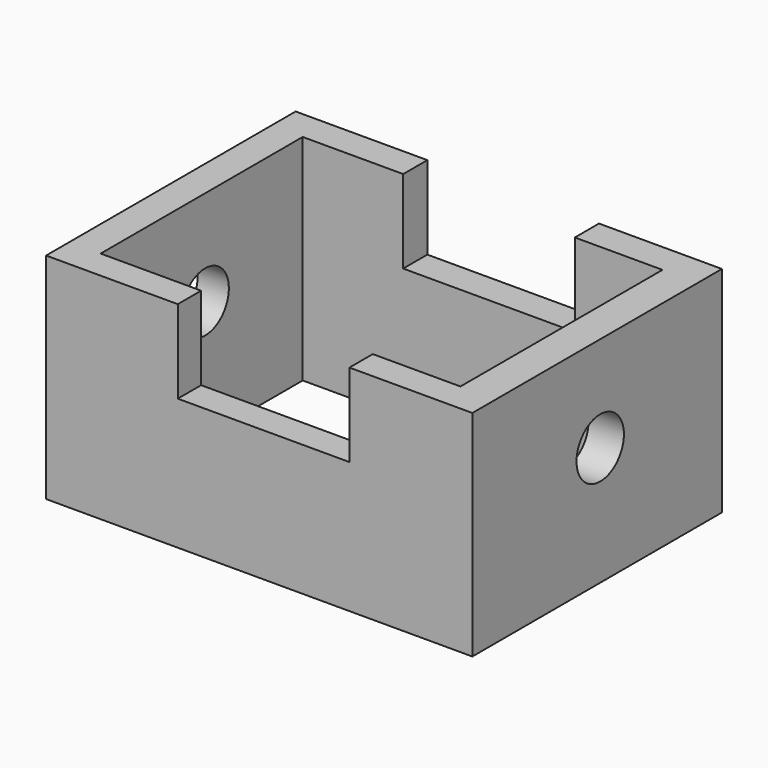
from build123d import *

# Parameters (mm, degrees)
F0_W     = 176.7475008965
F0_H     = 129.3457597494
F0_W_2   = 149.1751894355
F0_H_2   = 104.7213375568
F1_DEPTH = 88.9
F2_W     = 71.169947274
F2_H     = 34.491557771
F3_DEPTH = 152.4
F4_R     = 12.2849122759
F5_DEPTH = 254


with BuildPart() as f1:
    # F0 (on Top) → F1 (new body)
    with BuildSketch(Plane.XY):
        with Locations((-22.1776217222, -1.5915185213)):
            Rectangle(F0_W, F0_H)
        with Locations((-23.0179391801, -1.8009990454)):
            Rectangle(F0_W_2, F0_H_2, mode=Mode.SUBTRACT)
    extrude(amount=F1_DEPTH)

    # F2 (on face) → F3 (cut)
    with BuildSketch(Plane.XZ.offset(66.264398396)):
        with Locations((-20.3596032225, 71.6542211145)):
            Rectangle(F2_W, F2_H)
    extrude(amount=-F3_DEPTH, mode=Mode.SUBTRACT)

    # F4 (on face) → F5 (cut)
    with BuildSketch(Plane.YZ.offset(66.196128726)):
        with Locations((0, 49.2339283228)):
            Circle(F4_R)
    extrude(amount=-F5_DEPTH, mode=Mode.SUBTRACT)


solid = f1.part
